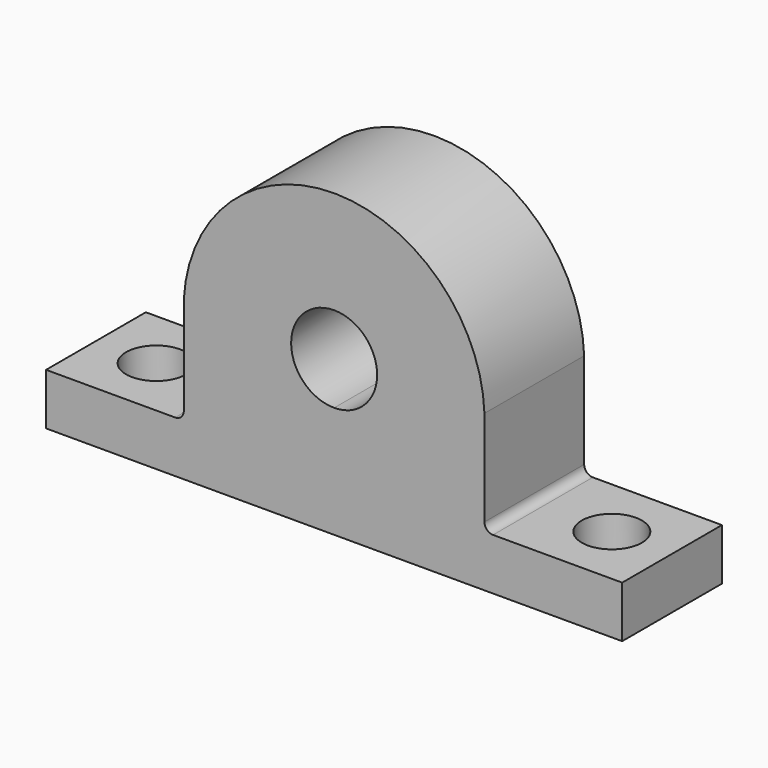
from build123d import *

# Parameters (mm, degrees)
F1_DEPTH = 14.5
F3_DEPTH = 14.5
F4_R     = 1
F5_R     = 3.5
F6_DEPTH = 6


with BuildPart() as f1:
    # F0 (on Front) → F1 (new body)
    with BuildSketch(Plane.XZ):
        with BuildLine():
            Line((-33.5, 0), (-0.8672476206, 0))
            Line((-0.8672476206, 0), (0, 0))
            Line((0, 0), (0.8527118365, 0))
            Line((0.8527118365, 0), (33.5, 0))
            Line((33.5, 0), (33.5, 6))
            Line((33.5, 6), (17.4809702634, 6))
            Line((17.4809702634, 6), (17.4809702634, 16.8373537033))
            Line((17.4809702634, 16.8373537033), (17.4809702634, 18.120359887))
            ThreePointArc((17.4809702634, 18.120359887), (-0.8075640242, 34.9605479634), (-17.4809702634, 16.5198336275))
            Line((-17.4809702634, 16.5198336275), (-17.4809702634, 6))
            Line((-17.4809702634, 6), (-33.5, 6))
            Line((-33.5, 6), (-33.5, 0))
        make_face()
    extrude(amount=F1_DEPTH)

    # F2 (on face) → F3 (cut, through all)
    with BuildSketch(Plane.XZ.offset(14.5)):
        with BuildLine():
            ThreePointArc((0, 23), (-5, 18), (0, 13))
            Line((0, 13), (0, 23))
        make_face()
        with BuildLine():
            Line((0, 23), (0, 13))
            ThreePointArc((0, 13), (3.5355339059, 14.4644660941), (5, 18))
            ThreePointArc((5, 18), (3.5355339059, 21.5355339059), (0, 23))
        make_face()
    extrude(amount=-F3_DEPTH, mode=Mode.SUBTRACT)

    # F4
    f4_edges = [f1.edges().sort_by_distance(p)[0] for p in [
        (-17.48097, -7.25, 6),
        (17.48097, -7.25, 6),
    ]]
    fillet(f4_edges, radius=F4_R)

    # F5 (on face) → F6 (cut, through all)
    with BuildSketch(Plane(origin=(0, 0, 0), x_dir=(1, 0, 0), z_dir=(0, 0, -1))):
        with BuildLine():
            Line((23, 7.25), (30, 7.25))
            ThreePointArc((30, 7.25), (26.5, 10.75), (23, 7.25))
        make_face()
        with BuildLine():
            ThreePointArc((23, 7.25), (26.5, 3.75), (30, 7.25))
            Line((30, 7.25), (23, 7.25))
        make_face()
        with Locations((-26.5, 7.25)):
            Circle(F5_R)
    extrude(amount=-F6_DEPTH, mode=Mode.SUBTRACT)


solid = f1.part
